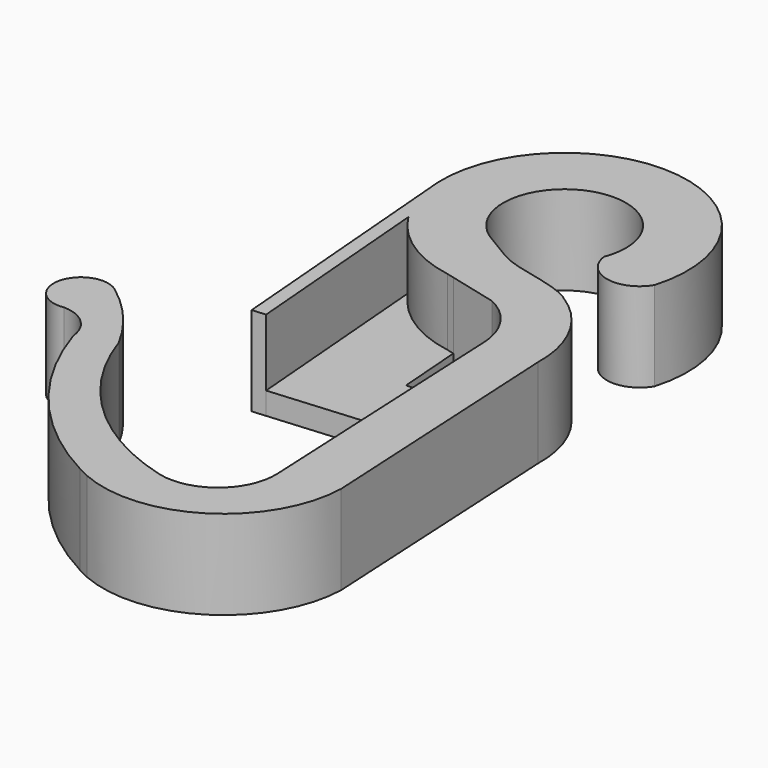
from build123d import *

# Parameters (mm, degrees)
F1_DEPTH = 4
F2_DEPTH = 1
F3_DEPTH = 4


with BuildPart() as f1:
    # F0 (on Top) → F1 (new body)
    with BuildSketch(Plane.XY):
        with BuildLine():
            ThreePointArc((-1.5508525785, 7.9438418354), (-0.8117387783, 12.8375466645), (2.5605860204, 9.2151080362))
            ThreePointArc((2.5605860204, 9.2151080362), (3.7184283285, 7.9559790876), (5.2833155314, 8.6467269154))
            ThreePointArc((5.2833155314, 8.6467269154), (0.6891933533, 15.6793977841), (-5.5065598875, 10.00691509))
            Line((-5.5065598875, 10.00691509), (-5.4662271831, 9.5160487318))
            ThreePointArc((-5.4662271831, 9.5160487318), (-5.1890353006, 8.3580166056), (-4.6695398419, 7.2865698204))
            ThreePointArc((-4.6695398419, 7.2865698204), (-3.0526487171, 5.624718363), (-0.8952786583, 4.7751057418))
            Line((-0.8952786583, 4.7751057418), (-0.5786401844, 4.6951146522))
            Line((-0.5786401844, 4.6951146522), (1.5938929177, 4.1462764523))
            ThreePointArc((1.5938929177, 4.1462764523), (2.6825813347, 3.2735631577), (3.2693851036, 2.0076515096))
            ThreePointArc((3.2693851036, 2.0076515096), (3.3114958995, 1.7472962445), (3.3309836872, 1.4842783567))
            Line((3.3309836872, 1.4842783567), (3.4477516729, -0.9928926231))
            Line((3.4477516729, -0.9928926231), (3.9091161415, -10.7804954964))
            ThreePointArc((3.9091161415, -10.7804954964), (2.9687698725, -12.8820847985), (0.7233424694, -13.3909899741))
            ThreePointArc((0.7233424694, -13.3909899741), (-3.8310752971, -10.860666841), (-6.6450210288, -6.4758104272))
            ThreePointArc((-6.6450210288, -6.4758104272), (-7.7820397087, -4.8140308867), (-9.2495143625, -3.4353210333))
            ThreePointArc((-9.2495143625, -3.4353210333), (-9.2784237273, -3.4136155218), (-9.3074170873, -3.3920223359))
            ThreePointArc((-9.3074170873, -3.3920223359), (-11.2022703258, -4.1244357737), (-9.8017050698, -5.5959367772))
            ThreePointArc((-9.8017050698, -5.5959367772), (-8.7259718037, -6.0249943061), (-8.2120165113, -7.0628490071))
            ThreePointArc((-8.2120165113, -7.0628490071), (-5.7280471213, -11.5611556114), (-1.7350801949, -14.7955151093))
            ThreePointArc((-1.7350801949, -14.7955151093), (-1.4700198659, -14.9324899814), (-1.201978699, -15.0635358758))
            ThreePointArc((-1.201978699, -15.0635358758), (3.8524766741, -14.675655203), (6.3695942874, -10.2754177713))
            Line((6.3695942874, -10.2754177713), (5.7489675473, 1.5311539041))
            ThreePointArc((5.7489675473, 1.5311539041), (5.1595327201, 4.0189158193), (3.4136745307, 5.8866341986))
            add(Edge.make_bspline(
                [(-1.3902529619, 7.8420158064), (0.0180558581, 6.9514744016), (0.5184174589, 6.7699007224), (2.976767486, 6.2503702939), (3.4136745307, 5.8866341986)],
                knots=[0.018384806, 0.018384806, 0.018384806, 0.018384806, 0.516913737, 1, 1, 1, 1], degree=3))
            ThreePointArc((-1.3902529619, 7.8420158064), (-1.4714338534, 7.8915391799), (-1.5508525785, 7.9438418354))
        make_face()
    extrude(amount=F1_DEPTH)

    # F0 (on Top) → F2 (join)
    with BuildSketch(Plane.XY):
        with BuildLine():
            ThreePointArc((-0.8952786583, 4.7751057418), (-3.0526487171, 5.624718363), (-4.6695398419, 7.2865698204))
            Line((-4.6695398419, 7.2865698204), (-3.9393737235, -1.599865865))
            Line((-3.9393737235, -1.599865865), (3.4477516729, -0.9928926231))
            Line((3.4477516729, -0.9928926231), (3.3309836872, 1.4842783567))
            ThreePointArc((3.3309836872, 1.4842783567), (3.3114958995, 1.7472962445), (3.2693851036, 2.0076515096))
            Line((3.2693851036, 2.0076515096), (-0.3569517285, 1.7655659467))
            Line((-0.3569517285, 1.7655659467), (-0.5786401844, 4.6951146522))
            Line((-0.5786401844, 4.6951146522), (-0.8952786583, 4.7751057418))
        make_face()
    extrude(amount=F2_DEPTH)

    # F0 (on Top) → F3 (join)
    with BuildSketch(Plane.XY):
        with BuildLine():
            ThreePointArc((-4.6695398419, 7.2865698204), (-5.1890353006, 8.3580166056), (-5.4662271831, 9.5160487318))
            Line((-5.4662271831, 9.5160487318), (-4.5487587385, -1.6499368166))
            Line((-4.5487587385, -1.6499368166), (-3.9393737235, -1.599865865))
            Line((-3.9393737235, -1.599865865), (-4.6695398419, 7.2865698204))
        make_face()
    extrude(amount=F3_DEPTH)


solid = f1.part
